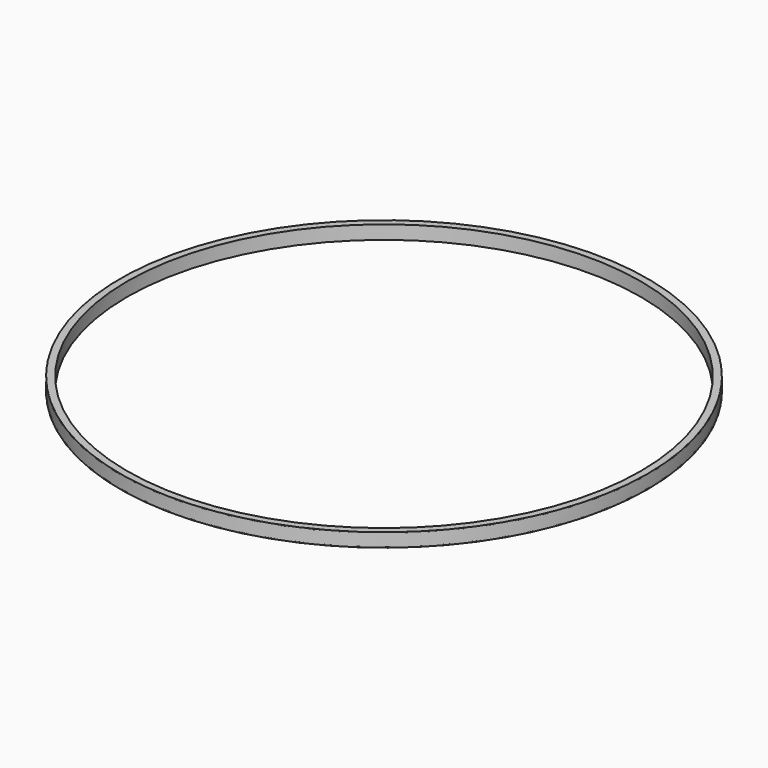
from build123d import *

# Parameters (mm, degrees)
F2_W = 1.705801
F2_H = 31


with BuildPart() as f1:
    # F0 (on Front) → F1 (revolve)
    with BuildSketch(Plane.XZ):
        Polygon((620, 33), (620, 0), (637, 0), (637, 1), (621, 1), (621, 32), (637, 32), (637, 33), align=None)
    revolve(axis=Axis((0, 0, 7.4422), (0, 0, 1)))


with BuildPart() as f3:
    # F2 (on Front) → F3 (revolve)
    with BuildSketch(Plane.XZ):
        with Locations((-636.147099, 16.5)):
            Rectangle(F2_W, F2_H)
    revolve(axis=Axis((0, 0, 16), (0, 0, 1)))


solid = Compound([f1.part, f3.part])
